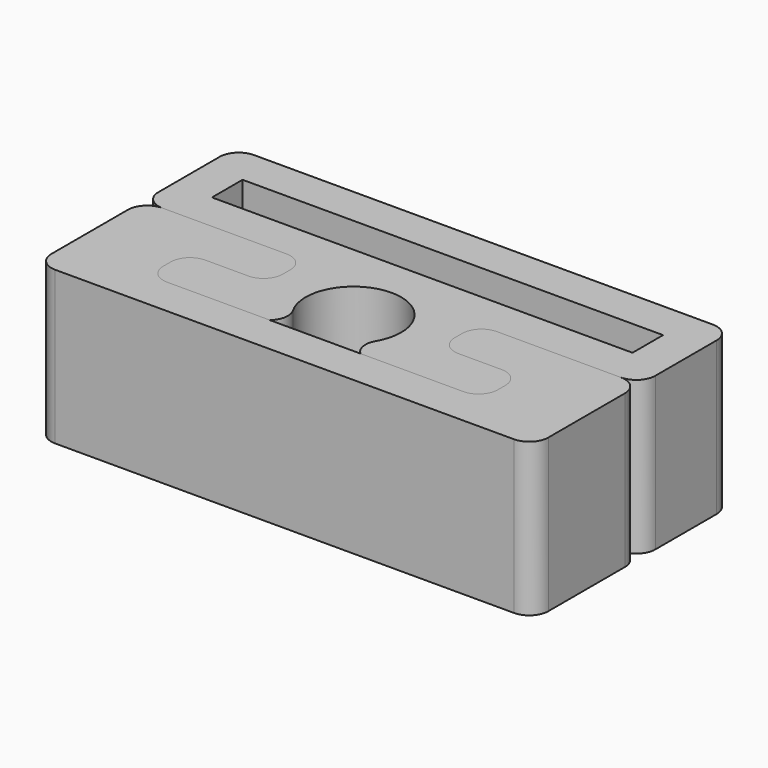
from build123d import *

# Parameters (mm, degrees)
F0_W     = 22
F0_H     = 2
F1_DEPTH = 8
F3_DEPTH = 8


with BuildPart() as f1:
    # F0 (on Top) → F1 (new body)
    with BuildSketch(Plane.XY):
        with BuildLine():
            ThreePointArc((13, 2), (12.707107, 2.707107), (12, 3))
            Line((12, 3), (-12, 3))
            ThreePointArc((-12, 3), (-12.707107, 2.707107), (-13, 2))
            Line((-13, 2), (-13, -2))
            ThreePointArc((-13, -2), (-12.707107, -2.707107), (-12, -3))
            Line((-12, -3), (-5.5, -3))
            ThreePointArc((-5.5, -3), (-4.792893, -3.292893), (-4.5, -4))
            Line((-4.5, -4), (-4.5, -4.5))
            ThreePointArc((-4.5, -4.5), (-4.792893, -5.207107), (-5.5, -5.5))
            Line((-5.5, -5.5), (-7.75, -5.5))
            ThreePointArc((-7.75, -5.5), (-8.457107, -5.792893), (-8.75, -6.5))
            Line((-8.75, -6.5), (-8.75, -7))
            ThreePointArc((-8.75, -7), (-8.457107, -7.707107), (-7.75, -8))
            Line((-7.75, -8), (-2.369651, -8))
            ThreePointArc((-2.369651, -8), (-2.04422, -7.411521), (-2.165064, -6.75))
            ThreePointArc((-2.165064, -6.75), (0, -3), (2.165064, -6.75))
            ThreePointArc((2.165064, -6.75), (2.04422, -7.411521), (2.369651, -8))
            Line((2.369651, -8), (7.75, -8))
            ThreePointArc((7.75, -8), (8.457107, -7.707107), (8.75, -7))
            Line((8.75, -7), (8.75, -6.5))
            ThreePointArc((8.75, -6.5), (8.457107, -5.792893), (7.75, -5.5))
            Line((7.75, -5.5), (5.5, -5.5))
            ThreePointArc((5.5, -5.5), (4.792893, -5.207107), (4.5, -4.5))
            Line((4.5, -4.5), (4.5, -4))
            ThreePointArc((4.5, -4), (4.792893, -3.292893), (5.5, -3))
            Line((5.5, -3), (12, -3))
            ThreePointArc((12, -3), (12.707107, -2.707107), (13, -2))
            Line((13, -2), (13, 2))
        make_face()
        Rectangle(F0_W, F0_H, mode=Mode.SUBTRACT)
    extrude(amount=F1_DEPTH)


with BuildPart() as f3:
    # F2 (on Top) → F3 (new body)
    with BuildSketch(Plane.XY):
        with BuildLine():
            Line((7.75, -8), (2.369651, -8))
            Line((2.369651, -8), (-2.369651, -8))
            Line((-2.369651, -8), (-7.75, -8))
            ThreePointArc((-7.75, -8), (-8.457107, -7.707107), (-8.75, -7))
            Line((-8.75, -7), (-8.75, -6.5))
            ThreePointArc((-8.75, -6.5), (-8.457107, -5.792893), (-7.75, -5.5))
            Line((-7.75, -5.5), (-5.5, -5.5))
            ThreePointArc((-5.5, -5.5), (-4.792893, -5.207107), (-4.5, -4.5))
            Line((-4.5, -4.5), (-4.5, -4))
            ThreePointArc((-4.5, -4), (-4.792893, -3.292893), (-5.5, -3))
            Line((-5.5, -3), (-12, -3))
            ThreePointArc((-12, -3), (-12.707107, -3.292893), (-13, -4))
            Line((-13, -4), (-13, -9))
            ThreePointArc((-13, -9), (-12.707107, -9.707107), (-12, -10))
            Line((-12, -10), (12, -10))
            ThreePointArc((12, -10), (12.707107, -9.707107), (13, -9))
            Line((13, -9), (13, -4))
            ThreePointArc((13, -4), (12.707107, -3.292893), (12, -3))
            Line((12, -3), (5.5, -3))
            ThreePointArc((5.5, -3), (4.792893, -3.292893), (4.5, -4))
            Line((4.5, -4), (4.5, -4.5))
            ThreePointArc((4.5, -4.5), (4.792893, -5.207107), (5.5, -5.5))
            Line((5.5, -5.5), (7.75, -5.5))
            ThreePointArc((7.75, -5.5), (8.457107, -5.792893), (8.75, -6.5))
            Line((8.75, -6.5), (8.75, -7))
            ThreePointArc((8.75, -7), (8.457107, -7.707107), (7.75, -8))
        make_face()
    extrude(amount=F3_DEPTH)


solid = Compound([f1.part, f3.part])
